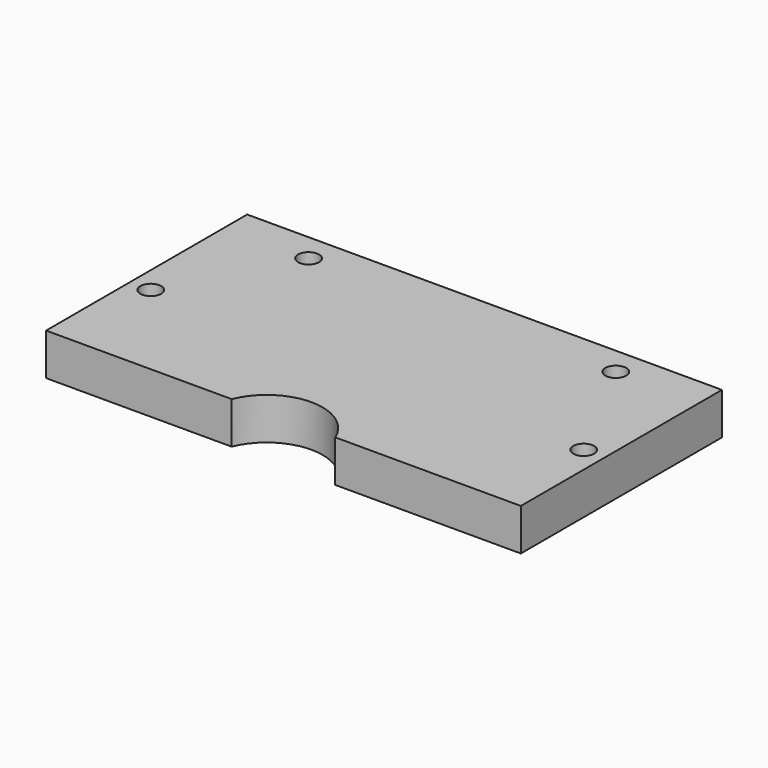
from build123d import *

# Parameters (mm, degrees)
CYLINDER1905_R               = 3
CYLINDER1905_DEPTH           = 3
CYLINDER1905_PLACEMENT_ANGLE = 45
CYLINDER1904_R               = 3
CYLINDER1904_DEPTH           = 3
CYLINDER1904_PLACEMENT_ANGLE = 45
CYLINDER1907_R               = 3
CYLINDER1907_DEPTH           = 3
CYLINDER1907_PLACEMENT_ANGLE = 45
CYLINDER1909_R               = 3
CYLINDER1909_DEPTH           = 3
CYLINDER1909_PLACEMENT_ANGLE = 45
CYLINDER1906_R               = 1.5
CYLINDER1906_DEPTH           = 50
CYLINDER1906_PLACEMENT_ANGLE = 45
CYLINDER1908_R               = 1.5
CYLINDER1908_DEPTH           = 50
CYLINDER1908_PLACEMENT_ANGLE = 45
CYLINDER1901_R               = 8
CYLINDER1901_DEPTH           = 6
CYLINDER1900_R               = 1.5
CYLINDER1900_DEPTH           = 50
CYLINDER1900_PLACEMENT_ANGLE = 45
CYLINDER1896_R               = 1.5
CYLINDER1896_DEPTH           = 50
CYLINDER1896_PLACEMENT_ANGLE = 45
BOX800_W                     = 68
BOX800_H                     = 36
BOX800_DEPTH                 = 6


with BuildPart() as obj1:
    # Cylinder1905 → Cylinder1905 (new body)
    with BuildSketch(Plane.XY):
        Circle(CYLINDER1905_R)
    extrude(amount=CYLINDER1905_DEPTH)


with BuildPart() as obj1_1:
    # Cylinder1905 placement: moved
    add(obj1.part.moved(Location((22, 118, 0))).rotate(Axis((22, 118, 0), (0, 0, 1)), CYLINDER1905_PLACEMENT_ANGLE))


with BuildPart() as compound956:
    # Cylinder1904 → Cylinder1904 (new body)
    with BuildSketch(Plane.XY):
        Circle(CYLINDER1904_R)
    extrude(amount=CYLINDER1904_DEPTH)


with BuildPart() as compound956_1:
    # Cylinder1904 placement: moved
    add(compound956.part.moved(Location((-22, 118, 0))).rotate(Axis((-22, 118, 0), (0, 0, 1)), CYLINDER1904_PLACEMENT_ANGLE))

    # Compound956: union obj1
    add(obj1_1.part)


with BuildPart() as compound956_2:
    # Compound956 placement: moved
    add(compound956_1.part.moved(Location((0, 0, 25))))


with BuildPart() as obj2:
    # Cylinder1907 → Cylinder1907 (new body)
    with BuildSketch(Plane.XY):
        Circle(CYLINDER1907_R)
    extrude(amount=CYLINDER1907_DEPTH)


with BuildPart() as obj2_1:
    # Cylinder1907 placement: moved
    add(obj2.part.moved(Location((31, 101, 0))).rotate(Axis((31, 101, 0), (0, 0, 1)), CYLINDER1907_PLACEMENT_ANGLE))


with BuildPart() as compound957:
    # Cylinder1909 → Cylinder1909 (new body)
    with BuildSketch(Plane.XY):
        Circle(CYLINDER1909_R)
    extrude(amount=CYLINDER1909_DEPTH)


with BuildPart() as compound957_1:
    # Cylinder1909 placement: moved
    add(compound957.part.moved(Location((-31, 101, 0))).rotate(Axis((-31, 101, 0), (0, 0, 1)), CYLINDER1909_PLACEMENT_ANGLE))

    # Compound957: union obj2
    add(obj2_1.part)


with BuildPart() as compound957_2:
    # Compound957 placement: moved
    add(compound957_1.part.moved(Location((0, 0, 25))))


with BuildPart() as obj3:
    # Cylinder1906 → Cylinder1906 (new body)
    with BuildSketch(Plane.XY):
        Circle(CYLINDER1906_R)
    extrude(amount=CYLINDER1906_DEPTH)


with BuildPart() as obj3_1:
    # Cylinder1906 placement: moved
    add(obj3.part.moved(Location((22, 118, 0))).rotate(Axis((22, 118, 0), (0, 0, 1)), CYLINDER1906_PLACEMENT_ANGLE))


with BuildPart() as compound958:
    # Cylinder1908 → Cylinder1908 (new body)
    with BuildSketch(Plane.XY):
        Circle(CYLINDER1908_R)
    extrude(amount=CYLINDER1908_DEPTH)


with BuildPart() as compound958_1:
    # Cylinder1908 placement: moved
    add(compound958.part.moved(Location((-22, 118, 0))).rotate(Axis((-22, 118, 0), (0, 0, 1)), CYLINDER1908_PLACEMENT_ANGLE))

    # Compound958: union obj3
    add(obj3_1.part)


with BuildPart() as obj4:
    # Cylinder1901 → Cylinder1901 (new body)
    with BuildSketch(Plane(origin=(0, 83, 25), x_dir=(1, 0, 0), z_dir=(0, 0, 1))):
        Circle(CYLINDER1901_R)
    extrude(amount=CYLINDER1901_DEPTH)


with BuildPart() as obj5:
    # Cylinder1900 → Cylinder1900 (new body)
    with BuildSketch(Plane.XY):
        Circle(CYLINDER1900_R)
    extrude(amount=CYLINDER1900_DEPTH)


with BuildPart() as obj5_1:
    # Cylinder1900 placement: moved
    add(obj5.part.moved(Location((31, 101, 0))).rotate(Axis((31, 101, 0), (0, 0, 1)), CYLINDER1900_PLACEMENT_ANGLE))


with BuildPart() as compound954:
    # Cylinder1896 → Cylinder1896 (new body)
    with BuildSketch(Plane.XY):
        Circle(CYLINDER1896_R)
    extrude(amount=CYLINDER1896_DEPTH)


with BuildPart() as compound954_1:
    # Cylinder1896 placement: moved
    add(compound954.part.moved(Location((-31, 101, 0))).rotate(Axis((-31, 101, 0), (0, 0, 1)), CYLINDER1896_PLACEMENT_ANGLE))

    # Compound954: union obj5
    add(obj5_1.part)


with BuildPart() as cut610:
    # Box800 → Box800 (new body)
    with BuildSketch(Plane(origin=(-34, 86, 25), x_dir=(1, 0, 0), z_dir=(0, 0, 1))):
        with Locations((34, 18)):
            Rectangle(BOX800_W, BOX800_H)
    extrude(amount=BOX800_DEPTH)

    # Cut606: cut Compound954
    add(compound954_1.part, mode=Mode.SUBTRACT)

    # Cut603: cut obj4
    add(obj4.part, mode=Mode.SUBTRACT)

    # Cut609: cut Compound958
    add(compound958_1.part, mode=Mode.SUBTRACT)

    # Cut611: cut Compound957
    add(compound957_2.part, mode=Mode.SUBTRACT)

    # Cut610: cut Compound956
    add(compound956_2.part, mode=Mode.SUBTRACT)


solid = cut610.part
